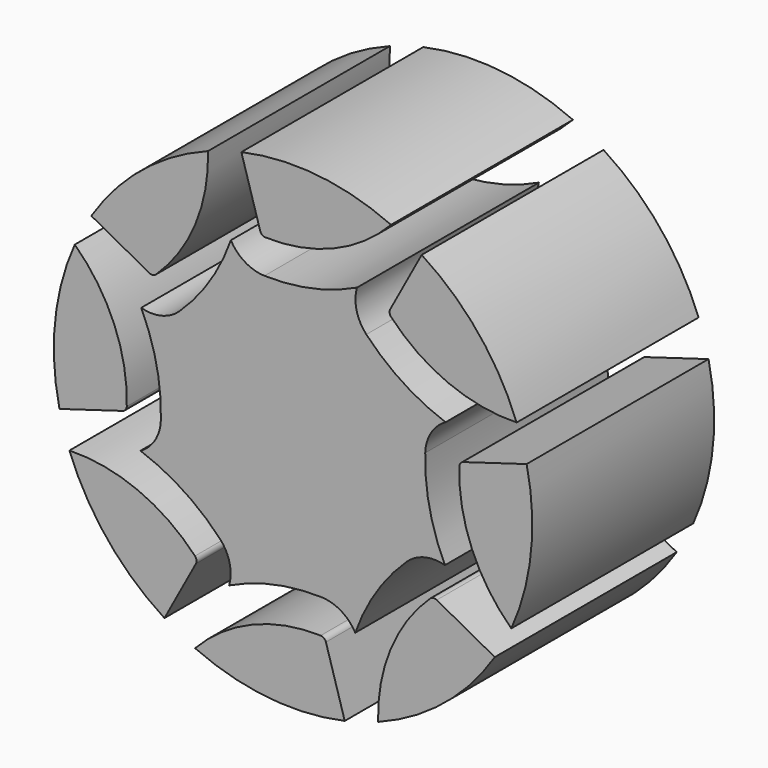
from build123d import *

# Parameters (mm, degrees)
F1_DEPTH = 25.4


with BuildPart() as f1:
    # F0 (on Front) → F1 (new body)
    with BuildSketch(Plane.XZ):
        with BuildLine():
            ThreePointArc((-15.313666, 10.954702), (-10.908108, 17.346417), (-9.499596, 24.98049))
            ThreePointArc((-9.499596, 24.98049), (-16.87326, 20.725836), (-22.534882, 14.368238))
            Line((-22.534882, 14.368238), (-16.052009, 10.857974))
            ThreePointArc((-16.052009, 10.857974), (-15.667171, 10.786751), (-15.313666, 10.954702))
        make_face()
        with BuildLine():
            ThreePointArc((24.98049, 9.499596), (20.725836, 16.87326), (14.368238, 22.534882))
            Line((14.368238, 22.534882), (10.857974, 16.052009))
            ThreePointArc((10.857974, 16.052009), (10.786751, 15.667171), (10.954702, 15.313666))
            ThreePointArc((10.954702, 15.313666), (17.346417, 10.908108), (24.98049, 9.499596))
        make_face()
        with BuildLine():
            ThreePointArc((8.184689, 12.697728), (7.09886, 14.692712), (7.140369, 16.963672))
            ThreePointArc((7.140369, 16.963672), (2.106061, 15.246767), (-3.1912, 14.766099))
            ThreePointArc((-3.1912, 14.766099), (-5.369664, 15.408968), (-6.946124, 17.044131))
            ThreePointArc((-6.946124, 17.044131), (-9.291882, 12.270302), (-12.697728, 8.184689))
            ThreePointArc((-12.697728, 8.184689), (-14.692712, 7.09886), (-16.963672, 7.140369))
            ThreePointArc((-16.963672, 7.140369), (-15.246767, 2.106061), (-14.766099, -3.1912))
            ThreePointArc((-14.766099, -3.1912), (-15.408968, -5.369664), (-17.044131, -6.946124))
            ThreePointArc((-17.044131, -6.946124), (-12.270302, -9.291882), (-8.184689, -12.697728))
            ThreePointArc((-8.184689, -12.697728), (-7.09886, -14.692712), (-7.140369, -16.963672))
            ThreePointArc((-7.140369, -16.963672), (-2.106061, -15.246767), (3.1912, -14.766099))
            ThreePointArc((3.1912, -14.766099), (5.369664, -15.408968), (6.946124, -17.044131))
            ThreePointArc((6.946124, -17.044131), (9.291882, -12.270302), (12.697728, -8.184689))
            ThreePointArc((12.697728, -8.184689), (14.692712, -7.09886), (16.963672, -7.140369))
            ThreePointArc((16.963672, -7.140369), (15.246767, -2.106061), (14.766099, 3.1912))
            ThreePointArc((14.766099, 3.1912), (15.408968, 5.369664), (17.044131, 6.946124))
            ThreePointArc((17.044131, 6.946124), (12.270302, 9.291882), (8.184689, 12.697728))
        make_face()
        with BuildLine():
            ThreePointArc((10.946645, 24.381102), (2.724182, 26.586576), (-5.77469, 26.094447))
            Line((-5.77469, 26.094447), (-3.672738, 19.028231))
            ThreePointArc((-3.672738, 19.028231), (-3.450978, 18.705747), (-3.082253, 18.574541))
            ThreePointArc((-3.082253, 18.574541), (4.552572, 19.978966), (10.946645, 24.381102))
        make_face()
        with BuildLine():
            ThreePointArc((-24.381102, 10.946645), (-26.586576, 2.724182), (-26.094447, -5.77469))
            Line((-26.094447, -5.77469), (-19.028231, -3.672738))
            ThreePointArc((-19.028231, -3.672738), (-18.705747, -3.450978), (-18.574541, -3.082253))
            ThreePointArc((-18.574541, -3.082253), (-19.978966, 4.552572), (-24.381102, 10.946645))
        make_face()
        with BuildLine():
            ThreePointArc((-24.98049, -9.499596), (-20.725836, -16.87326), (-14.368238, -22.534882))
            Line((-14.368238, -22.534882), (-10.857974, -16.052009))
            ThreePointArc((-10.857974, -16.052009), (-10.786751, -15.667171), (-10.954702, -15.313666))
            ThreePointArc((-10.954702, -15.313666), (-17.346417, -10.908108), (-24.98049, -9.499596))
        make_face()
        with BuildLine():
            ThreePointArc((-10.946645, -24.381102), (-2.724182, -26.586576), (5.77469, -26.094447))
            Line((5.77469, -26.094447), (3.672738, -19.028231))
            ThreePointArc((3.672738, -19.028231), (3.450978, -18.705747), (3.082253, -18.574541))
            ThreePointArc((3.082253, -18.574541), (-4.552572, -19.978966), (-10.946645, -24.381102))
        make_face()
        with BuildLine():
            ThreePointArc((9.499596, -24.98049), (16.87326, -20.725836), (22.534882, -14.368238))
            Line((22.534882, -14.368238), (16.052009, -10.857974))
            ThreePointArc((16.052009, -10.857974), (15.667171, -10.786751), (15.313666, -10.954702))
            ThreePointArc((15.313666, -10.954702), (10.908108, -17.346417), (9.499596, -24.98049))
        make_face()
        with BuildLine():
            ThreePointArc((24.381102, -10.946645), (26.586576, -2.724182), (26.094447, 5.77469))
            Line((26.094447, 5.77469), (19.028231, 3.672738))
            ThreePointArc((19.028231, 3.672738), (18.705747, 3.450978), (18.574541, 3.082253))
            ThreePointArc((18.574541, 3.082253), (19.978966, -4.552572), (24.381102, -10.946645))
        make_face()
    extrude(amount=F1_DEPTH)


solid = f1.part
